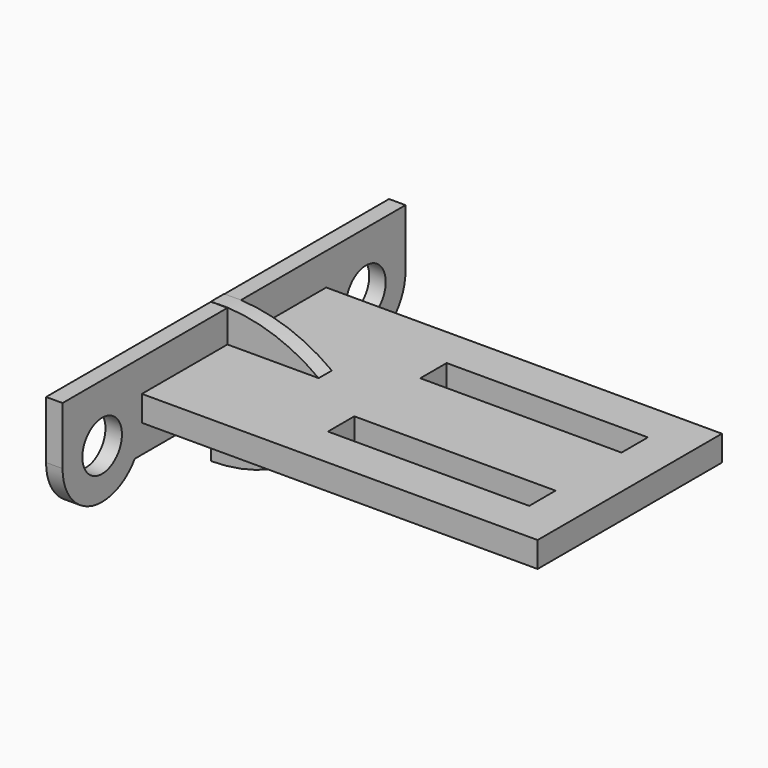
from build123d import *

# Parameters (mm, degrees)
F0_R     = 1.5
F0_W     = 6.9863945246
F0_H     = 1.5458728885
F1_DEPTH = 1
F2_DEPTH = 25
F3_W     = 12.2058418553
F3_H     = 2
F4_DEPTH = 25
F6_DEPTH = 0.5
F7_DEPTH = 25
F8_DEPTH = 25


with BuildPart() as f1:
    # F0 (on Right) → F1 (new body)
    with BuildSketch(Plane.YZ):
        with BuildLine():
            Line((-7.5285646403, -1.7005902689), (7.5285646403, -1.7005902689))
            ThreePointArc((7.5285646403, -1.7005902689), (10.8904195418, -2.8648129153), (13, 0))
            Line((13, 0), (13, 3.5))
            Line((13, 3.5), (-13, 3.5))
            Line((-13, 3.5), (-13, 0))
            ThreePointArc((-13, 0), (-10.8904195418, -2.8648129153), (-7.5285646403, -1.7005902689))
        make_face()
        with Locations((-10, 0)):
            Circle(F0_R, mode=Mode.SUBTRACT)
        with Locations((10, 0)):
            Circle(F0_R, mode=Mode.SUBTRACT)
        Polygon((6.9863945246, 0), (0, 0), (-6.9863945246, 0), (-6.9863945246, 1.5458728885), (0, 1.5458728885), (6.9863945246, 1.5458728885), align=None, mode=Mode.SUBTRACT)
        with Locations((3.4931972623, 0.7729364443)):
            Rectangle(F0_W, F0_H)
    extrude(amount=F1_DEPTH)

    # F0 (on Right) → F2 (join)
    with BuildSketch(Plane.YZ):
        with Locations((3.4931972623, 0.7729364443)):
            Rectangle(F0_W, F0_H)
    extrude(amount=F2_DEPTH)

    # F3 (on face) → F4 (cut)
    with BuildSketch(Plane(origin=(0, 0, 0), x_dir=(1, 0, 0), z_dir=(0, 0, -1))):
        with Locations((16.3970790723, -3.5)):
            Rectangle(F3_W, F3_H)
    extrude(amount=-F4_DEPTH, mode=Mode.SUBTRACT)

    # F5 (on face) → F6 (join, symmetric)
    with BuildSketch(Plane.XZ):
        with BuildLine():
            ThreePointArc((0, -5.004207138), (4.7964248116, -3.6540201663), (8.1841722131, 0))
            Line((8.1841722131, 0), (0, 0))
            Line((0, 0), (0, -5.004207138))
        make_face()
        with BuildLine():
            Line((0, 0), (8.1841722131, 0))
            ThreePointArc((8.1841722131, 0), (4.5027216519, 2.7135344455), (0, 3.5146868322))
            Line((0, 3.5146868322), (0, 0))
        make_face()
    extrude(amount=F6_DEPTH, both=True)

    # F0 (on Right) → F7 (join)
    with BuildSketch(Plane.YZ):
        with Locations((-3.4931972623, 0.7729364443)):
            Rectangle(F0_W, F0_H)
    extrude(amount=F7_DEPTH)

    # F3 (on face) → F8 (cut)
    with BuildSketch(Plane(origin=(0, 0, 0), x_dir=(1, 0, 0), z_dir=(0, 0, -1))):
        with Locations((16.3970790723, 3.5)):
            Rectangle(F3_W, F3_H)
    extrude(amount=-F8_DEPTH, mode=Mode.SUBTRACT)


solid = f1.part
